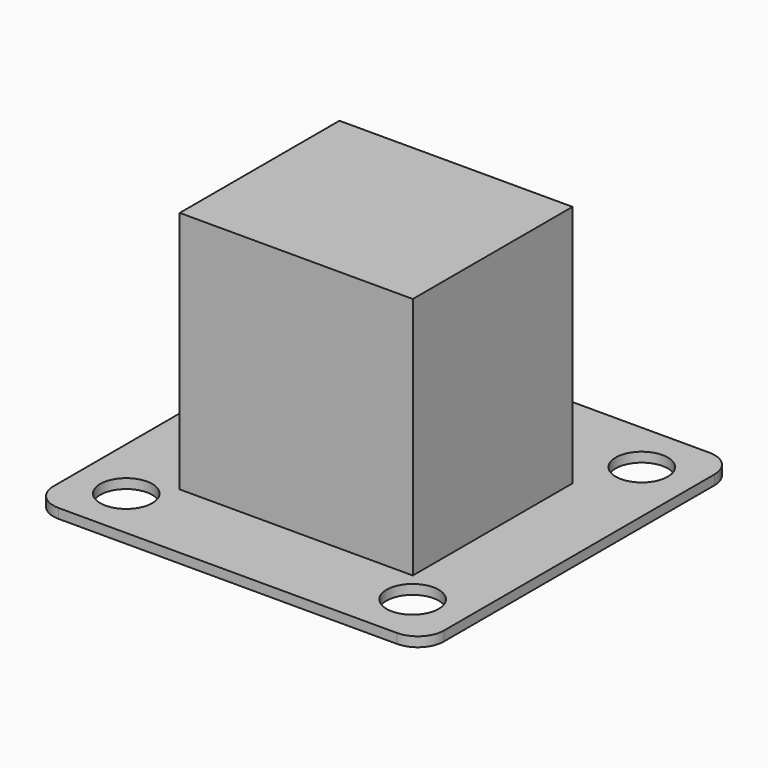
from build123d import *

# Parameters (mm, degrees)
F0_W     = 76.2
F0_H     = 76.2
F0_R     = 5.08
F0_R_2   = 19.05
F1_DEPTH = 1.8796
F2_R     = 5.08
F5_W     = 45.474999
F5_H     = 38.948495
F6_DEPTH = 47.498


with BuildPart() as f1:
    # F0 (on Top) → F1 (new body)
    with BuildSketch(Plane.XY):
        Rectangle(F0_W, F0_H)
        with Locations((-27.94, -27.94)):
            Circle(F0_R, mode=Mode.SUBTRACT)
        with Locations((27.94, -27.94)):
            Circle(F0_R, mode=Mode.SUBTRACT)
        with Locations((-27.94, 27.94)):
            Circle(F0_R, mode=Mode.SUBTRACT)
        Circle(F0_R_2, mode=Mode.SUBTRACT)
        with Locations((27.94, 27.94)):
            Circle(F0_R, mode=Mode.SUBTRACT)
    extrude(amount=F1_DEPTH)

    # F2
    f2_edges = [f1.edges().sort_by_distance(p)[0] for p in [
        (-38.1, -38.1, 0.9398),
        (38.1, -38.1, 0.9398),
        (38.1, 38.1, 0.9398),
        (-38.1, 38.1, 0.9398),
    ]]
    fillet(f2_edges, radius=F2_R)

    # F5 (on face) → F6 (join)
    with BuildSketch(Plane.XY.offset(1.8796)):
        with Locations((0.315798, -2.315857)):
            Rectangle(F5_W, F5_H)
    extrude(amount=F6_DEPTH)


solid = f1.part
